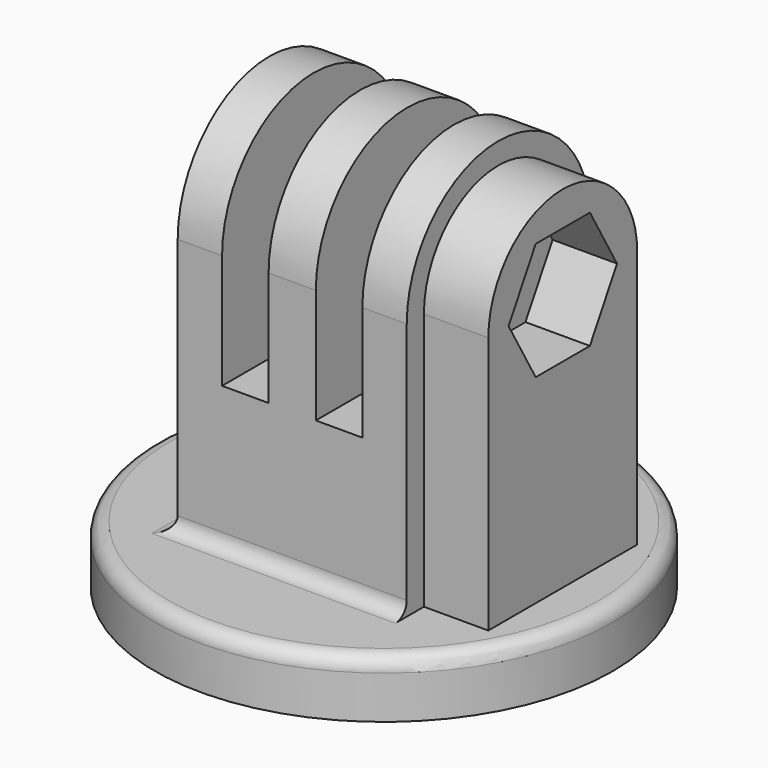
from build123d import *

# Parameters (mm, degrees)
SKETCH_R        = 16
PAD_DEPTH       = 4
FILLET_R        = 1
SKETCH001_W     = 16
SKETCH001_H     = 16
PAD001_DEPTH    = 10
FILLET001_R     = 1
PAD002_DEPTH    = 3.1
PAD003_DEPTH    = 1.65
SKETCH004_R     = 2.6
POCKET_DEPTH    = 24.001
PAD004_DEPTH    = 4.5
POCKET001_DEPTH = 4.5


with BuildPart() as part:
    # Sketch → Pad (new body)
    with BuildSketch(Plane.XY):
        Circle(SKETCH_R)
    extrude(amount=PAD_DEPTH)

    # Fillet
    fillet_edges = [part.edges().sort_by_distance(p)[0] for p in [
        (-16, 0, 4),
    ]]
    fillet(fillet_edges, radius=FILLET_R)

    # Sketch001 (on Face4 of Fillet) → Pad001 (join)
    with BuildSketch(Plane.XY.offset(4)):
        Rectangle(SKETCH001_W, SKETCH001_H)
    extrude(amount=PAD001_DEPTH)

    # Fillet001
    fillet001_edges = [part.edges().sort_by_distance(p)[0] for p in [
        (0, -8, 4),
        (0, 8, 4),
        (-8, 0, 4),
    ]]
    fillet(fillet001_edges, radius=FILLET001_R)

    # Sketch002 (on Face2 of Fillet001) → Pad002 (join)
    with BuildSketch(Plane.YZ.offset(8)):
        with BuildLine():
            Line((-8, 14), (8, 14))
            Line((8, 14), (8, 22))
            ThreePointArc((8, 22), (0, 30), (-8, 22))
            Line((-8, 14), (-8, 22))
        make_face()
    pad002 = extrude(amount=-PAD002_DEPTH)

    # Mirrored: Pad002 across YZ
    add(pad002.mirror(Plane.YZ))

    # Sketch003 → Pad003 (join, symmetric)
    with BuildSketch(Plane.YZ):
        with BuildLine():
            Line((-8, 14), (8, 14))
            Line((8, 14), (8, 22))
            ThreePointArc((8, 22), (0, 30), (-8, 22))
            Line((-8, 14), (-8, 22))
        make_face()
    extrude(amount=PAD003_DEPTH, both=True)

    # Sketch004 (on Face8 of Pad003) → Pocket (cut, through all)
    with BuildSketch(Plane.YZ.offset(8)):
        with Locations((0, 22)):
            Circle(SKETCH004_R)
    extrude(amount=-POCKET_DEPTH, mode=Mode.SUBTRACT)

    # Sketch005 (on Face8 of Pocket) → Pad004 (join)
    with BuildSketch(Plane.YZ.offset(8)):
        with BuildLine():
            Line((-6.5, 4), (-6.5, 22))
            ThreePointArc((6.5, 22), (0, 28.5), (-6.5, 22))
            Line((6.5, 4), (6.5, 22))
            Line((-6.5, 4), (6.5, 4))
        make_face()
    extrude(amount=PAD004_DEPTH)

    # Sketch006 (on Face5 of Pad004) → Pocket001 (cut)
    with BuildSketch(Plane.YZ.offset(12.5)):
        Polygon((2.367136, 26.1), (-2.367136, 26.1), (-4.734272, 22), (-2.367136, 17.9), (2.367136, 17.9), (4.734272, 22), align=None)
    extrude(amount=-POCKET001_DEPTH, mode=Mode.SUBTRACT)


solid = part.part
